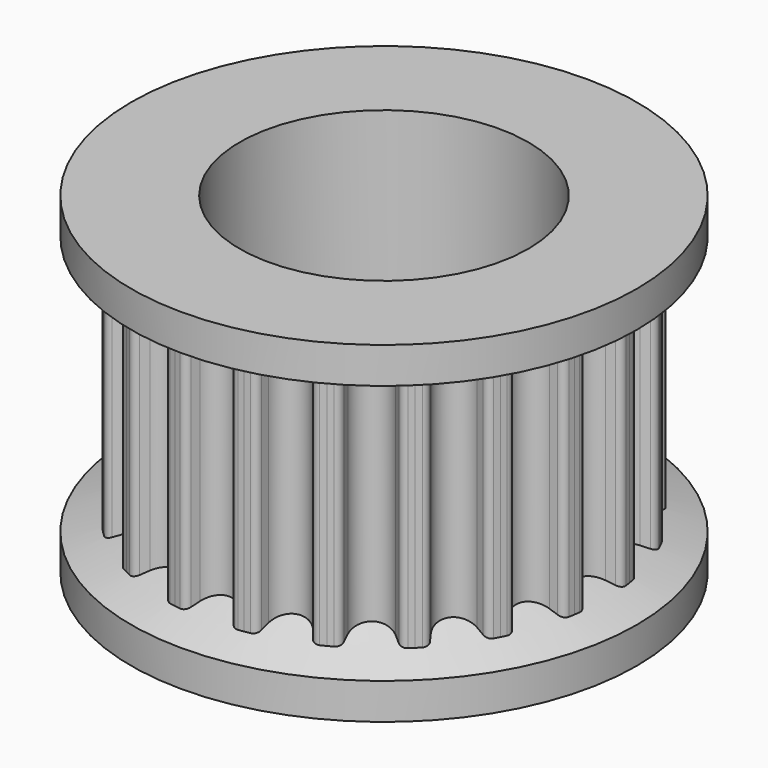
from build123d import *

# Parameters (mm, degrees)
F3_DEPTH = 4.5
F4_COUNT = 20
F7_R     = 4
F8_DEPTH = 50


with BuildPart() as f3:
    # F2 (on Top) → F3 (new body, symmetric)
    with BuildSketch(Plane.XY):
        with BuildLine():
            Line((0.8388325323, 5.2961801716), (0.9561583811, 6.0369464271))
            ThreePointArc((0.9561583811, 6.0369464271), (0.8769247137, 6.0489638832), (0.7975402939, 6.0599414595))
            ThreePointArc((0.7975402939, 6.0599414595), (0.673583382, 6.0329713178), (0.5951684067, 5.9332527328))
            ThreePointArc((0.5951684067, 5.9332527328), (0.5578349377, 5.8252126761), (0.5180414063, 5.7180543045))
            ThreePointArc((0.5180414063, 5.7180543045), (0.3142454474, 5.4597320978), (0, 5.3621977237))
            ThreePointArc((0, 5.3621977237), (-0.3142454474, 5.4597320978), (-0.5180414063, 5.7180543045))
            ThreePointArc((-0.5180414063, 5.7180543045), (-0.5578349377, 5.8252126761), (-0.5951684067, 5.9332527328))
            ThreePointArc((-0.5951684067, 5.9332527328), (-0.673583382, 6.0329713178), (-0.7975402939, 6.0599414595))
            ThreePointArc((-0.7975402939, 6.0599414595), (-0.8769247137, 6.0489638832), (-0.9561583811, 6.0369464271))
            Line((-0.9561583811, 6.0369464271), (-0.8388325323, 5.2961801716))
            Line((-0.8388325323, 5.2961801716), (0, 0))
            Line((0, 0), (0.8388325323, 5.2961801716))
        make_face()
        with BuildLine():
            Line((0.8388325323, 5.2961801716), (0.9561583811, 6.0369464271))
            ThreePointArc((0.9561583811, 6.0369464271), (0.8769247137, 6.0489638832), (0.7975402939, 6.0599414595))
            ThreePointArc((0.7975402939, 6.0599414595), (0.673583382, 6.0329713178), (0.5951684067, 5.9332527328))
            ThreePointArc((0.5951684067, 5.9332527328), (0.5578349377, 5.8252126761), (0.5180414063, 5.7180543045))
            ThreePointArc((0.5180414063, 5.7180543045), (0.3142454474, 5.4597320978), (0, 5.3621977237))
            ThreePointArc((0, 5.3621977237), (-0.3142454474, 5.4597320978), (-0.5180414063, 5.7180543045))
            ThreePointArc((-0.5180414063, 5.7180543045), (-0.5578349377, 5.8252126761), (-0.5951684067, 5.9332527328))
            ThreePointArc((-0.5951684067, 5.9332527328), (-0.673583382, 6.0329713178), (-0.7975402939, 6.0599414595))
            ThreePointArc((-0.7975402939, 6.0599414595), (-0.8769247137, 6.0489638832), (-0.9561583811, 6.0369464271))
            Line((-0.9561583811, 6.0369464271), (-0.8388325323, 5.2961801716))
            Line((-0.8388325323, 5.2961801716), (0, 0))
            Line((0, 0), (0.8388325323, 5.2961801716))
        make_face()
        with BuildLine():
            Line((0.8388325323, 5.2961801716), (0.9561583811, 6.0369464271))
            ThreePointArc((0.9561583811, 6.0369464271), (0.8769247137, 6.0489638832), (0.7975402939, 6.0599414595))
            ThreePointArc((0.7975402939, 6.0599414595), (0.673583382, 6.0329713178), (0.5951684067, 5.9332527328))
            ThreePointArc((0.5951684067, 5.9332527328), (0.5578349377, 5.8252126761), (0.5180414063, 5.7180543045))
            ThreePointArc((0.5180414063, 5.7180543045), (0.3142454474, 5.4597320978), (0, 5.3621977237))
            ThreePointArc((0, 5.3621977237), (-0.3142454474, 5.4597320978), (-0.5180414063, 5.7180543045))
            ThreePointArc((-0.5180414063, 5.7180543045), (-0.5578349377, 5.8252126761), (-0.5951684067, 5.9332527328))
            ThreePointArc((-0.5951684067, 5.9332527328), (-0.673583382, 6.0329713178), (-0.7975402939, 6.0599414595))
            ThreePointArc((-0.7975402939, 6.0599414595), (-0.8769247137, 6.0489638832), (-0.9561583811, 6.0369464271))
            Line((-0.9561583811, 6.0369464271), (-0.8388325323, 5.2961801716))
            Line((-0.8388325323, 5.2961801716), (0, 0))
            Line((0, 0), (0.8388325323, 5.2961801716))
        make_face()
    extrude(amount=F3_DEPTH, both=True)

    # F4: F3 ×20 about axis
    f4_axis = Axis((0, 0, 0), (0, 0, -1))


with BuildPart() as f3_1:
    add(f3.part)
    for i in range(1, F4_COUNT):
        add(f3.part.rotate(f4_axis, i * 360 / F4_COUNT))

    # F5 (on Front) → F6 (revolve)
    with BuildSketch(Plane.XZ):
        Polygon((7.002817496, 4.5), (0, 4.5), (0, 2.9028632371), (5.3621977237, 2.9028632371), (7.002817496, 3.5), align=None)
        Polygon((5.3621977237, -3.0971367629), (0, -3.0971367629), (0, -4.6942735258), (7.002817496, -4.6942735258), (7.002817496, -3.6942735258), align=None)
    revolve(axis=Axis((0, 0, 3.7014316186), (0, 0, 1)))

    # F7 (on Top) → F8 (cut, symmetric)
    with BuildSketch(Plane.XY):
        Circle(F7_R)
    extrude(amount=F8_DEPTH, both=True, mode=Mode.SUBTRACT)


solid = f3_1.part
